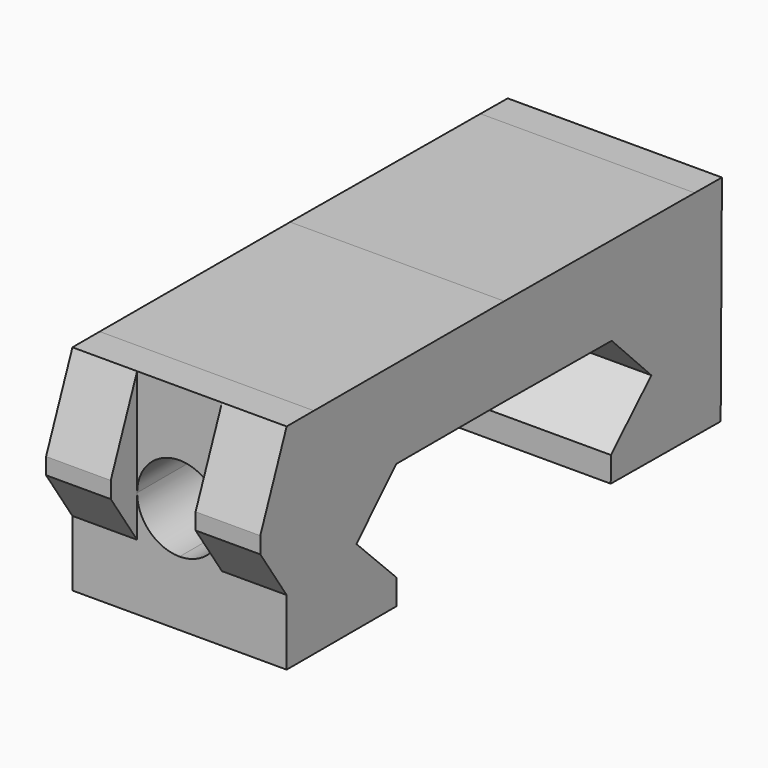
from build123d import *

# Parameters (mm, degrees)
F1_DEPTH = 13
F4_DEPTH = 34.5
F5_DEPTH = 13
F6_DEPTH = 15.6
F7_DEPTH = 5.01


with BuildPart() as f1:
    # F0 (on Right) → F1 (new body)
    with BuildSketch(Plane.YZ):
        Polygon((-37.0099544525, -6.5021011516), (-28.6699544525, -6.5021011516), (-28.6699544525, -4.9721011516), (-31.7186098982, -1.9396598952), (-28.6861686418, 1.1089955505), (-20.5187435475, 1.1084489664), (-20.4991411365, 6.4742991461), (-34.9424730613, 6.4934650898), (-37.0099544525, 1.4721968726), (-37.0099544525, -2.5149521395), align=None)
        Polygon((-37.0099544525, 6.4934650898), (-37.0099544525, 1.4721968726), (-34.9424730613, 6.4934650898), align=None)
    extrude(amount=F1_DEPTH)

    # F3: F1 across face


with BuildPart() as f1_1:
    add(f1.part)
    add(f1.part.mirror(Plane(origin=(6.5, -20.508942342, 3.7913740563), x_dir=(-1, 0, 0), z_dir=(0, 0.9999933272, -0.0036531546))))

    # F2 (on face) → F4 (cut)
    with BuildSketch(Plane.XZ.offset(37.0099544525)):
        with BuildLine():
            ThreePointArc((9.075, 0), (8.3207999616, 1.8207999616), (6.5, 2.575))
            Line((6.5, 2.575), (6.5, 0))
            Line((6.5, 0), (9.075, 0))
        make_face()
        with BuildLine():
            ThreePointArc((6.5, 2.575), (4.6792000384, 1.8207999616), (3.925, 0))
            Line((3.925, 0), (6.5, 0))
            Line((6.5, 0), (6.5, 2.575))
        make_face()
        with BuildLine():
            Line((6.5, 0), (3.925, 0))
            ThreePointArc((3.925, 0), (4.6792000384, -1.8207999616), (6.5, -2.575))
            Line((6.5, -2.575), (6.5, 0))
        make_face()
        with BuildLine():
            Line((6.5, 0), (6.5, -2.575))
            ThreePointArc((6.5, -2.575), (8.3207999616, -1.8207999616), (9.075, 0))
            Line((9.075, 0), (6.5, 0))
        make_face()
    extrude(amount=-F4_DEPTH, mode=Mode.SUBTRACT)

    # F0 (on Right) → F5 (join)
    with BuildSketch(Plane.YZ):
        Polygon((-39.0099544525, 0.4721968726), (-37.0099544525, -2.5149521395), (-37.0099544525, 1.4721968726), (-39.0099544525, 1.4721968726), align=None)
        Polygon((-39.0099544525, 1.4721968726), (-37.0099544525, 1.4721968726), (-37.0099544525, 6.4934650898), align=None)
    extrude(amount=F5_DEPTH)

    # F2 (on face) → F6 (cut)
    with BuildSketch(Plane.XZ.offset(37.0099544525)):
        with BuildLine():
            ThreePointArc((9.075, 0), (8.3207999616, 1.8207999616), (6.5, 2.575))
            Line((6.5, 2.575), (6.5, 0))
            Line((6.5, 0), (9.075, 0))
        make_face()
        with BuildLine():
            ThreePointArc((6.5, 2.575), (4.6792000384, 1.8207999616), (3.925, 0))
            Line((3.925, 0), (6.5, 0))
            Line((6.5, 0), (6.5, 2.575))
        make_face()
        with BuildLine():
            Line((6.5, 0), (3.925, 0))
            ThreePointArc((3.925, 0), (4.6792000384, -1.8207999616), (6.5, -2.575))
            Line((6.5, -2.575), (6.5, 0))
        make_face()
        with BuildLine():
            Line((6.5, 0), (6.5, -2.575))
            ThreePointArc((6.5, -2.575), (8.3207999616, -1.8207999616), (9.075, 0))
            Line((9.075, 0), (6.5, 0))
        make_face()
    extrude(amount=F6_DEPTH, mode=Mode.SUBTRACT)

    # F2 (on face) → F7 (cut)
    with BuildSketch(Plane.XZ.offset(37.0099544525)):
        with BuildLine():
            Line((6.5, 6.4934650898), (3.925, 6.4934650898))
            Line((3.925, 6.4934650898), (3.925, 0))
            ThreePointArc((3.925, 0), (4.6792000384, 1.8207999616), (6.5, 2.575))
            Line((6.5, 2.575), (6.5, 6.4934650898))
        make_face()
        with BuildLine():
            Line((9.075, 6.4934650898), (6.5, 6.4934650898))
            Line((6.5, 6.4934650898), (6.5, 2.575))
            ThreePointArc((6.5, 2.575), (8.3207999616, 1.8207999616), (9.075, 0))
            Line((9.075, 0), (9.075, 6.4934650898))
        make_face()
        with BuildLine():
            ThreePointArc((9.075, 0), (8.3207999616, -1.8207999616), (6.5, -2.575))
            Line((6.5, -2.575), (6.5, -6.5021011516))
            Line((6.5, -6.5021011516), (9.075, -6.5021011516))
            Line((9.075, -6.5021011516), (9.075, 0))
        make_face()
        with BuildLine():
            ThreePointArc((6.5, -2.575), (4.6792000384, -1.8207999616), (3.925, 0))
            Line((3.925, 0), (3.925, -6.5021011516))
            Line((3.925, -6.5021011516), (6.5, -6.5021011516))
            Line((6.5, -6.5021011516), (6.5, -2.575))
        make_face()
    extrude(amount=F7_DEPTH, mode=Mode.SUBTRACT)


solid = f1_1.part
